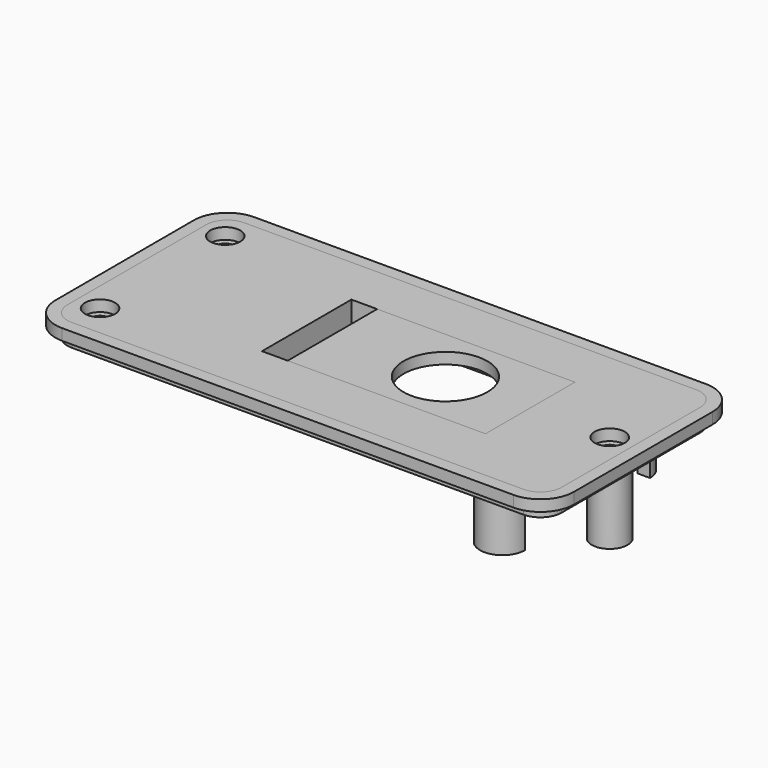
from build123d import *

# Parameters (mm, degrees)
F1_DEPTH  = 2.54
F0_W      = 22.479
F0_H      = 12.7
F0_R      = 4.7625
F2_DEPTH  = 1.27
F3_DEPTH  = 1.27
F4_R      = 2.032
F5_DEPTH  = 0.4572
F6_DEPTH  = 5.969
F7_R      = 1.7145
F8_DEPTH  = 1.27
F9_R      = 1.016
F10_DEPTH = 5.969
F11_R     = 2.032
F11_R_2   = 1.016
F12_DEPTH = 7.5692


with BuildPart() as f1:
    # F0 (on Top) → F1 (new body)
    with BuildSketch(Plane.XY):
        with BuildLine():
            Line((29.717637, 11.938), (-21.604332, 11.938))
            ThreePointArc((-21.604332, 11.938), (-23.310581, 11.231249), (-24.017332, 9.525))
            Line((-24.017332, 9.525), (-24.017332, -10.16))
            ThreePointArc((-24.017332, -10.16), (-23.310581, -11.866249), (-21.604332, -12.573))
            Line((-21.604332, -12.573), (29.717637, -12.573))
            ThreePointArc((29.717637, -12.573), (31.423886, -11.866249), (32.130637, -10.16))
            Line((32.130637, -10.16), (32.130637, 9.525))
            ThreePointArc((32.130637, 9.525), (31.423886, 11.231249), (29.717637, 11.938))
        make_face()
        Polygon((20.432668, 6.35), (20.432668, -6.35), (-2.046332, -6.35), (-4.967332, -6.35), (-4.967332, 6.35), (-2.046332, 6.35), align=None, mode=Mode.SUBTRACT)
    extrude(amount=-F1_DEPTH)

    # F4 (on face) → F5 (join)
    with BuildSketch(Plane(origin=(0, 0, -2.54), x_dir=(1, 0, 0), z_dir=(0, 0, -1))):
        with Locations((-21.336, 8.89)):
            Circle(F4_R)
        with Locations((-21.336, -8.89)):
            Circle(F4_R)
    extrude(amount=F5_DEPTH)

    # F4 (on face) → F6 (join)
    with BuildSketch(Plane(origin=(0, 0, -2.54), x_dir=(1, 0, 0), z_dir=(0, 0, -1))):
        with BuildLine():
            ThreePointArc((23.241, 8.89), (24.384, 10.033), (25.527, 8.89))
            Line((25.527, 8.89), (26.924, 8.89))
            ThreePointArc((26.924, 8.89), (24.384, 11.43), (21.844, 8.89))
            Line((21.844, 8.89), (23.241, 8.89))
        make_face()
        with BuildLine():
            Line((26.924, -8.89), (25.527, -8.89))
            ThreePointArc((25.527, -8.89), (24.384, -10.033), (23.241, -8.89))
            Line((23.241, -8.89), (21.844, -8.89))
            ThreePointArc((21.844, -8.89), (24.384, -11.43), (26.924, -8.89))
        make_face()
    extrude(amount=F6_DEPTH)

    # F7 (on face) → F8 (cut)
    with BuildSketch(Plane.XY):
        with Locations((-21.336, 8.89)):
            Circle(F7_R)
        with Locations((-21.336, -8.89)):
            Circle(F7_R)
        with Locations((29.464, 0)):
            Circle(F7_R)
    extrude(amount=-F8_DEPTH, mode=Mode.SUBTRACT)

    # F9 (on face) → F10 (cut)
    with BuildSketch(Plane(origin=(0, 0, -1.27), x_dir=(1, 0, 0), z_dir=(0, 0, -1))):
        with Locations((-21.336, 8.89)):
            Circle(F9_R)
        with Locations((-21.336, -8.89)):
            Circle(F9_R)
        with Locations((29.464, 0)):
            Circle(F9_R)
    extrude(amount=F10_DEPTH, mode=Mode.SUBTRACT)

    # F11 (on face) → F12 (join)
    with BuildSketch(Plane(origin=(0, 0, -2.54), x_dir=(1, 0, 0), z_dir=(0, 0, -1))):
        with Locations((29.464, 0)):
            Circle(F11_R)
        with Locations((29.464, 0)):
            Circle(F11_R_2, mode=Mode.SUBTRACT)
    extrude(amount=F12_DEPTH)


with BuildPart() as f2:
    # F0 (on Top) → F2 (new body)
    with BuildSketch(Plane.XY):
        with Locations((9.193168, 0)):
            Rectangle(F0_W, F0_H)
        with Locations((10.795, 0)):
            Circle(F0_R, mode=Mode.SUBTRACT)
    extrude(amount=-F2_DEPTH)


with BuildPart() as f3:
    # F0 (on Top) → F3 (new body)
    with BuildSketch(Plane.XY):
        with BuildLine():
            Line((-21.579105, -13.97), (29.717736, -13.97))
            ThreePointArc((29.717736, -13.97), (32.411778, -12.854112), (33.527736, -10.160099))
            Line((33.527736, -10.160099), (33.528247, 9.524901))
            ThreePointArc((33.528247, 9.524901), (32.412359, 12.219042), (29.718247, 13.335))
            Line((29.718247, 13.335), (-21.600239, 13.335))
            ThreePointArc((-21.600239, 13.335), (-24.295762, 12.21763), (-25.410237, 9.52091))
            Line((-25.410237, 9.52091), (-25.389103, -10.16409))
            ThreePointArc((-25.389103, -10.16409), (-24.271736, -12.855523), (-21.579105, -13.97))
        make_face()
        with BuildLine():
            ThreePointArc((-24.017332, 9.525), (-23.310581, 11.231249), (-21.604332, 11.938))
            Line((-21.604332, 11.938), (29.717637, 11.938))
            ThreePointArc((29.717637, 11.938), (31.423886, 11.231249), (32.130637, 9.525))
            Line((32.130637, 9.525), (32.130637, -10.16))
            ThreePointArc((32.130637, -10.16), (31.423886, -11.866249), (29.717637, -12.573))
            Line((29.717637, -12.573), (-21.604332, -12.573))
            ThreePointArc((-21.604332, -12.573), (-23.310581, -11.866249), (-24.017332, -10.16))
            Line((-24.017332, -10.16), (-24.017332, 9.525))
        make_face(mode=Mode.SUBTRACT)
    extrude(amount=-F3_DEPTH)


solid = Compound([f1.part, f2.part, f3.part])
